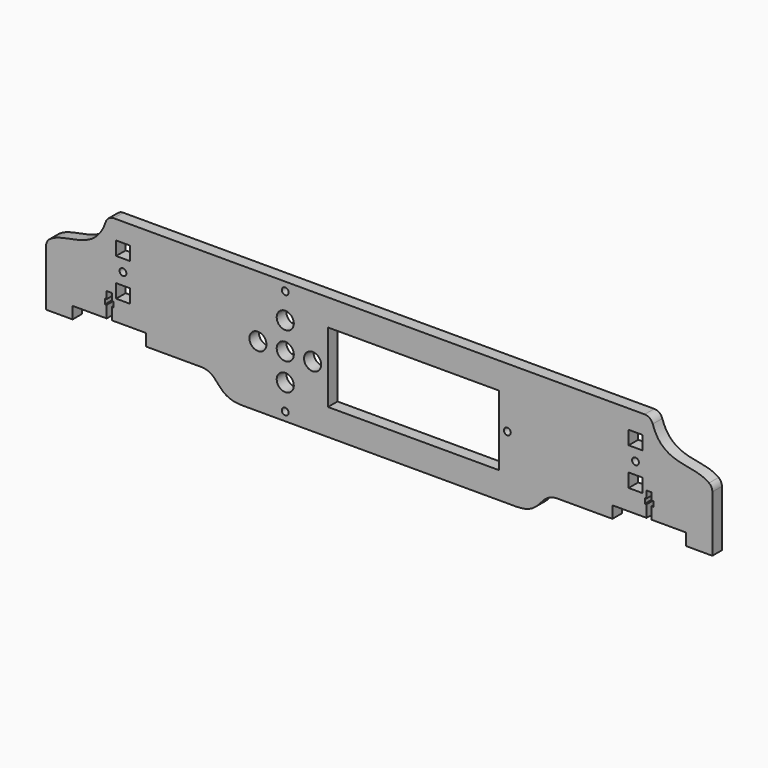
from build123d import *

# Parameters (mm, degrees)
F0_R     = 2
F0_W     = 8
F0_H     = 8
F0_R_2   = 5
F0_W_2   = 100
F0_H_2   = 41
F1_DEPTH = 7


with BuildPart() as f1:
    # F0 (on Front) → F1 (new body)
    with BuildSketch(Plane.XZ):
        with BuildLine():
            Line((-80, 0), (0, 0))
            Line((0, 0), (80, 0))
            add(Edge.make_bspline(
                [(80, 0), (96.28427, 0), (92.631489, 12.12483), (105, 12)],
                knots=[0, 0, 0, 0, 27.730849, 27.730849, 27.730849, 27.730849], degree=3))
            Line((105, 12), (136.5, 12))
            Line((136.5, 12), (136.5, 19))
            Line((136.5, 19), (156.5, 19))
            Line((156.5, 19), (156.5, 26))
            Line((156.5, 26), (155.5, 26))
            Line((155.5, 26), (155.5, 29))
            Line((155.5, 29), (156.5, 29))
            Line((156.5, 29), (156.5, 33.138553))
            Line((156.5, 33.138553), (158, 33.138553))
            Line((158, 33.138553), (159.5, 33.138553))
            Line((159.5, 33.138553), (159.5, 29))
            Line((159.5, 29), (160.5, 29))
            Line((160.5, 29), (160.5, 26))
            Line((160.5, 26), (159.5, 26))
            Line((159.5, 26), (159.5, 19))
            Line((159.5, 19), (179.5, 19))
            Line((179.5, 19), (179.5, 12))
            Line((179.5, 12), (195, 12))
            Line((195, 12), (195, 44.927057))
            ThreePointArc((195, 44.927057), (194.48614, 47.134895), (193.05018, 48.888925))
            add(Edge.make_bspline(
                [(160.114705, 68.542634), (166.272349, 49.558061), (183.983751, 55.869028), (193.05018, 48.888925)],
                knots=[2.170073, 2.170073, 2.170073, 2.170073, 40.679074, 40.679074, 40.679074, 40.679074], degree=3))
            ThreePointArc((160.114705, 68.542634), (158.298595, 71.044327), (155.358626, 72))
            Line((155.358626, 72), (0, 72))
            Line((0, 72), (-155.358626, 72))
            ThreePointArc((-155.358626, 72), (-158.298595, 71.044327), (-160.114705, 68.542634))
            add(Edge.make_bspline(
                [(-160.114705, 68.542634), (-166.272349, 49.558061), (-183.983751, 55.869028), (-193.05018, 48.888925)],
                knots=[2.170073, 2.170073, 2.170073, 2.170073, 40.679074, 40.679074, 40.679074, 40.679074], degree=3))
            ThreePointArc((-193.05018, 48.888925), (-194.48614, 47.134895), (-195, 44.927057))
            Line((-195, 44.927057), (-195, 12))
            Line((-195, 12), (-179.5, 12))
            Line((-179.5, 12), (-179.5, 19))
            Line((-179.5, 19), (-159.5, 19))
            Line((-159.5, 19), (-159.5, 26))
            Line((-159.5, 26), (-160.5, 26))
            Line((-160.5, 26), (-160.5, 29))
            Line((-160.5, 29), (-159.5, 29))
            Line((-159.5, 29), (-159.5, 33.138553))
            Line((-159.5, 33.138553), (-158, 33.138553))
            Line((-158, 33.138553), (-156.5, 33.138553))
            Line((-156.5, 33.138553), (-156.5, 29))
            Line((-156.5, 29), (-155.5, 29))
            Line((-155.5, 29), (-155.5, 26))
            Line((-155.5, 26), (-156.5, 26))
            Line((-156.5, 26), (-156.5, 19))
            Line((-156.5, 19), (-136.5, 19))
            Line((-136.5, 19), (-136.5, 12))
            Line((-136.5, 12), (-105, 12))
            add(Edge.make_bspline(
                [(-80, 0), (-96.28427, 0), (-92.631489, 12.12483), (-105, 12)],
                knots=[0, 0, 0, 0, 27.730849, 27.730849, 27.730849, 27.730849], degree=3))
        make_face()
        with Locations((-55, 5)):
            Circle(F0_R, mode=Mode.SUBTRACT)
        with Locations((-150, 35)):
            Rectangle(F0_W, F0_H, mode=Mode.SUBTRACT)
        with Locations((-55, 20)):
            Circle(F0_R_2, mode=Mode.SUBTRACT)
        with Locations((150, 35)):
            Rectangle(F0_W, F0_H, mode=Mode.SUBTRACT)
        with Locations((-150, 46)):
            Circle(F0_R, mode=Mode.SUBTRACT)
        with Locations((-71, 36)):
            Circle(F0_R_2, mode=Mode.SUBTRACT)
        with Locations((-55, 36)):
            Circle(F0_R_2, mode=Mode.SUBTRACT)
        with Locations((-39, 36)):
            Circle(F0_R_2, mode=Mode.SUBTRACT)
        with Locations((-55, 52)):
            Circle(F0_R_2, mode=Mode.SUBTRACT)
        with Locations((-150, 57)):
            Rectangle(F0_W, F0_H, mode=Mode.SUBTRACT)
        with Locations((-55, 67)):
            Circle(F0_R, mode=Mode.SUBTRACT)
        with Locations((20, 36)):
            Rectangle(F0_W_2, F0_H_2, mode=Mode.SUBTRACT)
        with Locations((75, 37)):
            Circle(F0_R, mode=Mode.SUBTRACT)
        with Locations((150, 46)):
            Circle(F0_R, mode=Mode.SUBTRACT)
        with Locations((150, 57)):
            Rectangle(F0_W, F0_H, mode=Mode.SUBTRACT)
    extrude(amount=F1_DEPTH)


solid = f1.part
